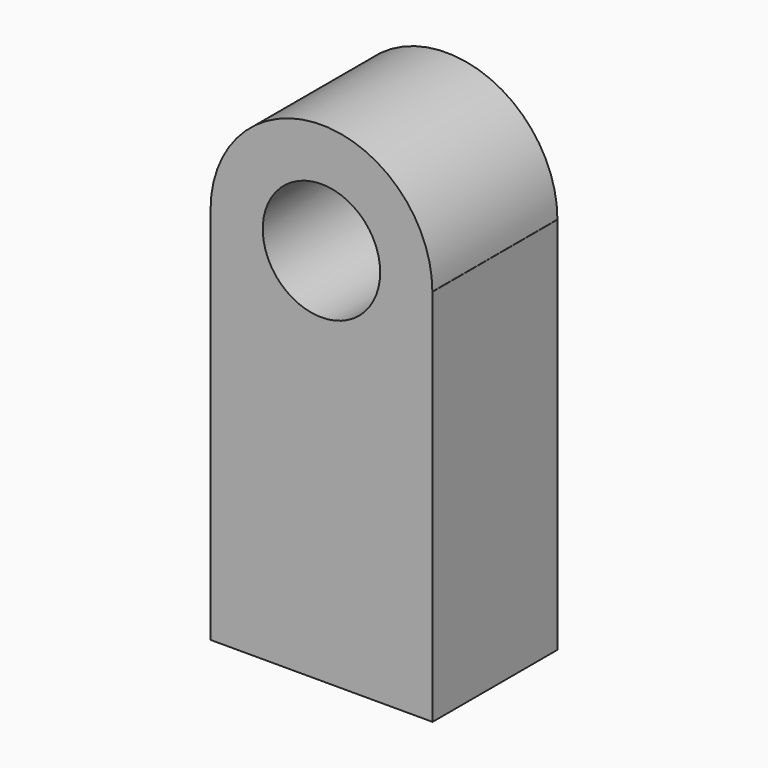
from build123d import *

# Parameters (mm, degrees)
F0_R     = 28.612942
F1_DEPTH = 76.2
F3_W     = 35.79326
F3_H     = 15.010085
F2_R     = 18.912984
F4_DEPTH = 30.226


with BuildPart() as f1:
    # F0 (on Front) → F1 (new body)
    with BuildSketch(Plane.XZ):
        with BuildLine():
            Line((-54.049077, 92.286333), (-54.145753, 92.286333))
            Line((-54.145753, 92.286333), (-54.145753, -92.286333))
            Line((-54.145753, -92.286333), (54.145753, -92.286333))
            Line((54.145753, -92.286333), (54.145753, 92.286333))
            Line((54.145753, 92.286333), (54.049077, 92.286333))
            ThreePointArc((54.049077, 92.286333), (0, 146.335411), (-54.049077, 92.286333))
        make_face()
        with Locations((0, 92.286333)):
            Circle(F0_R, mode=Mode.SUBTRACT)
    extrude(amount=F1_DEPTH)

    # F3 (on Front) + F2 (on Front) → F4 (cut)
    with BuildSketch(Plane.XZ):
        with Locations((-29.298518, -30.562203)):
            Rectangle(F3_W, F3_H)
    with BuildSketch(Plane.XZ):
        with Locations((26.700616, 28.03483)):
            Circle(F2_R)
    extrude(amount=F4_DEPTH, mode=Mode.SUBTRACT)


solid = f1.part
